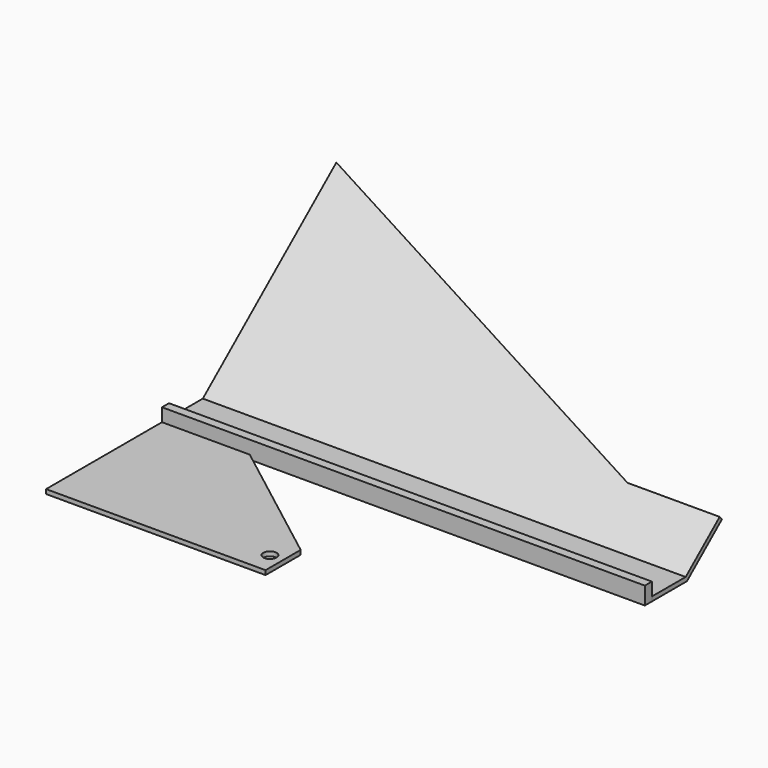
from build123d import *

# Parameters (mm, degrees)
F0_W     = 110
F0_H     = 10
F0_R     = 3
F0_R_2   = 1.5
F1_DEPTH = 1
F2_DEPTH = 4
F5_DEPTH = 1


with BuildPart() as f1:
    # F0 (on Top) → F1 (new body)
    with BuildSketch(Plane.XY):
        with Locations((55, 40)):
            Rectangle(F0_W, F0_H)
        Polygon((0, 33), (0, 0), (50, 0), (50, 5), (50, 10), (20, 33), align=None)
        with Locations((47, 5)):
            Circle(F0_R, mode=Mode.SUBTRACT)
        with Locations((47, 5)):
            Circle(F0_R)
        with Locations((47, 5)):
            Circle(F0_R_2, mode=Mode.SUBTRACT)
    extrude(amount=F1_DEPTH)

    # F4 (on face) → F5 (join)
    with BuildSketch(Plane(origin=(0, 18.592916, -22.158174), x_dir=(1, 0, 0), z_dir=(0, -0.642788, 0.766044))):
        Polygon((0, 84.472), (0, 34.472), (110, 34.472), (110, 47.472), (89, 47.472), align=None)
    extrude(amount=F5_DEPTH)


with BuildPart() as f2:
    # F0 (on Top) → F2 (new body)
    with BuildSketch(Plane.XY):
        Polygon((0, 35), (0, 33), (20, 33), (110, 33), (110, 35), align=None)
    extrude(amount=F2_DEPTH)


solid = Compound([f1.part, f2.part])
